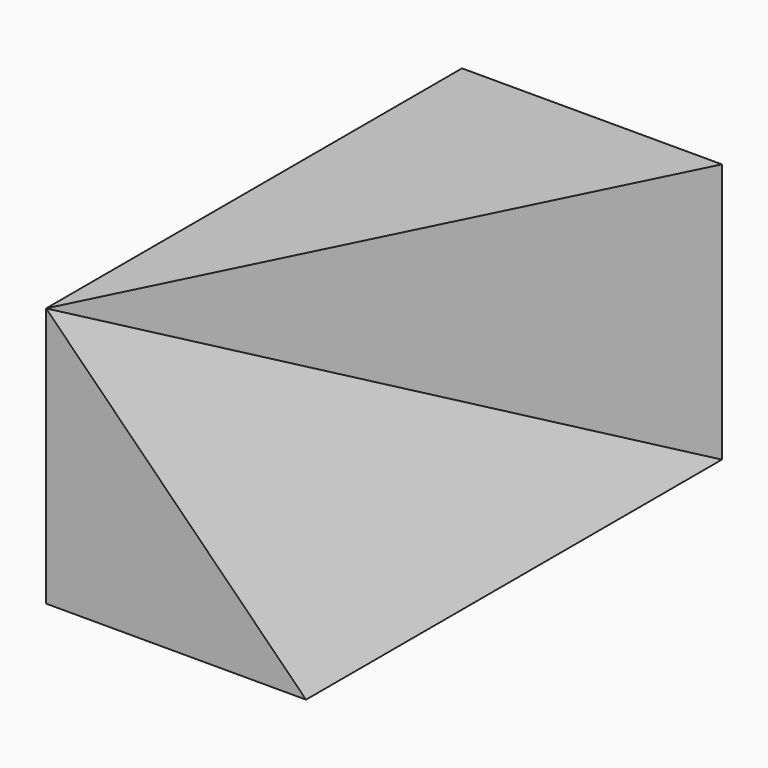
from build123d import *

# Parameters (mm, degrees)
F1_DEPTH = 100
F3_DEPTH = 50


with BuildPart() as f1:
    # F0 (on Front) → F1 (new body)
    with BuildSketch(Plane.XZ):
        Polygon((0, 50), (0, 0), (50, 0), align=None)
    extrude(amount=-F1_DEPTH)

    # F2 (on face) → F3 (join, through all)
    with BuildSketch(Plane(origin=(0, 0, 0), x_dir=(1, 0, 0), z_dir=(0, 0, -1))):
        Polygon((50, -100), (0, 0), (0, -100), align=None)
    extrude(amount=-F3_DEPTH)


solid = f1.part
